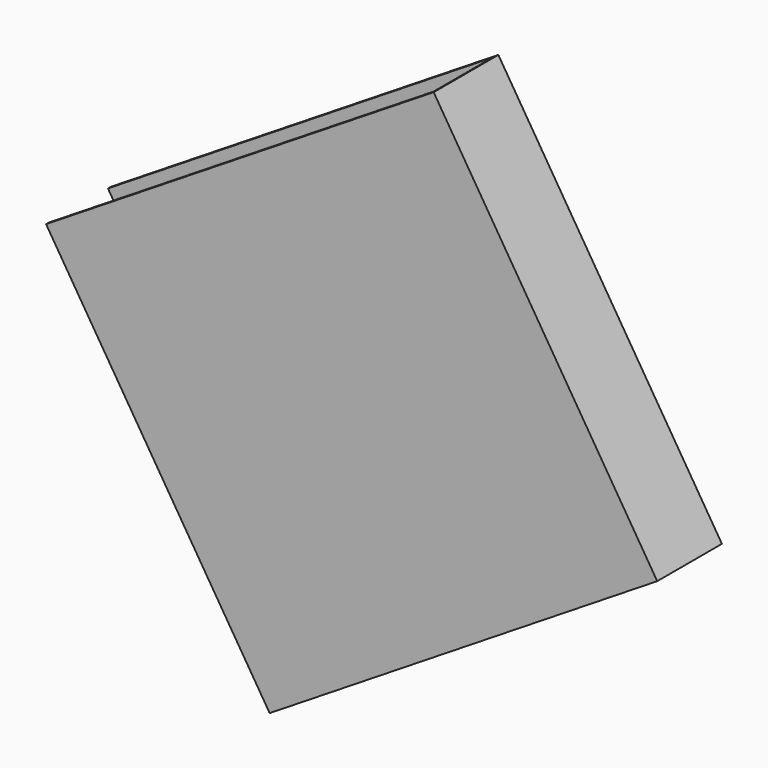
from build123d import *

# Parameters (mm, degrees)
BOX141_W               = 6
BOX141_H               = 6.45
BOX141_DEPTH           = 1.05
BOX140_W               = 6
BOX140_H               = 6.5
BOX140_DEPTH           = 1.15
CUT063_ROLL_ANGLE      = 90
CUT063_PITCH_ANGLE     = -58
CUT063_PLACEMENT_ANGLE = 180


with BuildPart() as small_cu_gnd_electrode056:
    # Box141 → Box141 (new body)
    with BuildSketch(Plane.XY.offset(0.05)):
        with Locations((3, 3.225)):
            Rectangle(BOX141_W, BOX141_H)
    extrude(amount=BOX141_DEPTH)


with BuildPart() as small_cu_electrode002_short_axis_gnd005:
    # Box140 → Box140 (new body)
    with BuildSketch(Plane.XY):
        with Locations((3, 3.25)):
            Rectangle(BOX140_W, BOX140_H)
    extrude(amount=BOX140_DEPTH)

    # Cut063: cut Small Cu GND Electrode056
    add(small_cu_gnd_electrode056.part, mode=Mode.SUBTRACT)


with BuildPart() as small_cu_electrode002_short_axis_gnd005_1:
    # Cut063 roll: moved
    add(small_cu_electrode002_short_axis_gnd005.part.rotate(Axis((0, 0, 0), (1, 0, 0)), CUT063_ROLL_ANGLE))


with BuildPart() as small_cu_electrode002_short_axis_gnd005_2:
    # Cut063 pitch: moved
    add(small_cu_electrode002_short_axis_gnd005_1.part.rotate(Axis((0, 0, 0), (0, 1, 0)), CUT063_PITCH_ANGLE))


with BuildPart() as small_cu_electrode002_short_axis_gnd005_3:
    # Cut063 placement: moved
    add(small_cu_electrode002_short_axis_gnd005_2.part.moved(Location((-6.250047, 2.74, 49.708858))).rotate(Axis((-6.250047, 2.74, 49.708858), (0, 0, 1)), CUT063_PLACEMENT_ANGLE))


solid = small_cu_electrode002_short_axis_gnd005_3.part
